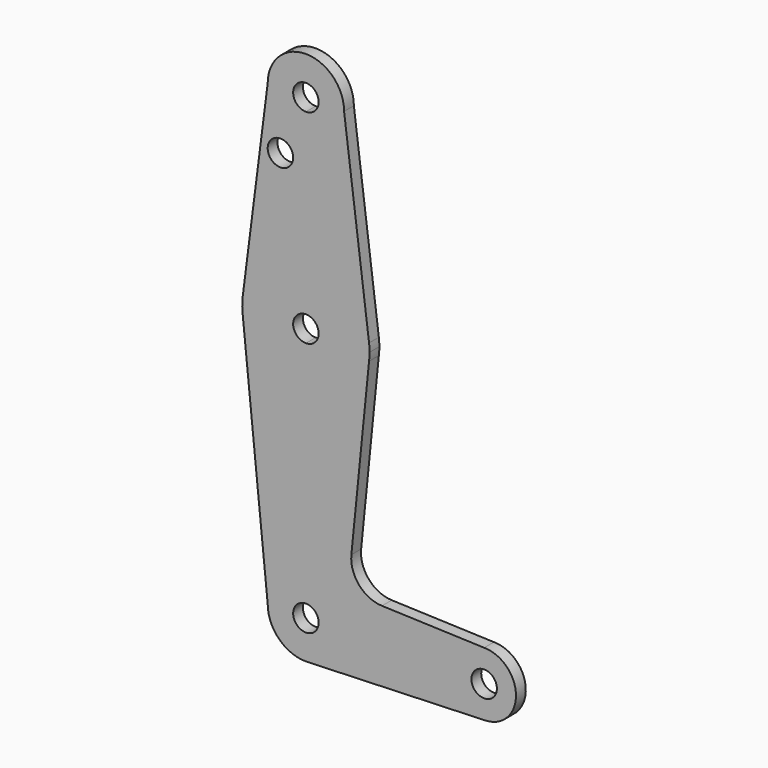
from build123d import *

# Parameters (mm, degrees)
F0_R     = 3.175
F1_DEPTH = 3.048


with BuildPart() as f1:
    # F0 (on Front) → F1 (new body)
    with BuildSketch(Plane.XZ):
        with BuildLine():
            Line((0, 104.775), (0, 79.375))
            ThreePointArc((0, 79.375), (10.4912828548, 75.4142187767), (15.7474569047, 65.5082893304))
            Line((15.7474569047, 65.5082893304), (9.525, 114.3))
            ThreePointArc((9.525, 114.3), (6.7351920908, 107.5648079092), (0, 104.775))
        make_face()
        with BuildLine():
            Line((-9.525, 114.3), (-15.7474569047, 65.5082893304))
            ThreePointArc((-15.7474569047, 65.5082893304), (-10.4912828548, 75.4142187767), (0, 79.375))
            Line((0, 79.375), (0, 104.775))
            ThreePointArc((0, 104.775), (-6.7351920908, 107.5648079092), (-9.525, 114.3))
        make_face()
        with Locations((-6.35, 100.0252)):
            Circle(F0_R, mode=Mode.SUBTRACT)
        with BuildLine():
            ThreePointArc((9.525, 114.3), (0, 123.825), (-9.525, 114.3))
            ThreePointArc((-9.525, 114.3), (-6.7351920908, 107.5648079092), (0, 104.775))
            ThreePointArc((0, 104.775), (6.7351920908, 107.5648079092), (9.525, 114.3))
        make_face()
        with BuildLine():
            ThreePointArc((3.175, 114.3), (2.2450640303, 112.0549359697), (0, 111.125))
            ThreePointArc((0, 111.125), (-2.2450640303, 116.5450640303), (3.175, 114.3))
        make_face(mode=Mode.SUBTRACT)
        with BuildLine():
            Line((0, 47.625), (0, 9.525))
            ThreePointArc((0, 9.525), (6.7351920908, 6.7351920908), (9.525, 0))
            Line((9.525, 0), (36.5125, 0))
            ThreePointArc((36.5125, 0), (38.8373399243, 5.6126600757), (44.45, 7.9375))
            Line((44.45, 7.9375), (18.9647942191, 8.8511945514))
            ThreePointArc((18.9647942191, 8.8511945514), (13.2592410586, 11.5693613748), (11.3392208, 17.5905979549))
            Line((11.3392208, 17.5905979549), (15.7474569047, 61.4917106696))
            ThreePointArc((15.7474569047, 61.4917106696), (10.4912828548, 51.5857812233), (0, 47.625))
        make_face()
        with BuildLine():
            Line((0, 60.325), (0, 47.625))
            ThreePointArc((0, 47.625), (10.4912828548, 51.5857812233), (15.7474569047, 61.4917106696))
            ThreePointArc((15.7474569047, 61.4917106696), (15.8430821396, 62.4938323604), (15.875, 63.5))
            ThreePointArc((15.875, 63.5), (15.8430821396, 64.5061676396), (15.7474569047, 65.5082893304))
            ThreePointArc((15.7474569047, 65.5082893304), (10.4912828548, 75.4142187767), (0, 79.375))
            Line((0, 79.375), (0, 66.675))
            ThreePointArc((0, 66.675), (2.2450640303, 65.7450640303), (3.175, 63.5))
            ThreePointArc((3.175, 63.5), (2.2450640303, 61.2549359697), (0, 60.325))
        make_face()
        with BuildLine():
            ThreePointArc((-15.7942028036, 61.9003804205), (-10.644756084, 51.722700101), (0, 47.625))
            Line((0, 47.625), (0, 60.325))
            ThreePointArc((0, 60.325), (-3.175, 63.5), (0, 66.675))
            Line((0, 66.675), (0, 79.375))
            ThreePointArc((0, 79.375), (-10.4912828548, 75.4142187767), (-15.7474569047, 65.5082893304))
            ThreePointArc((-15.7474569047, 65.5082893304), (-15.873667691, 63.7056672947), (-15.7942028036, 61.9003804205))
        make_face()
        with BuildLine():
            ThreePointArc((-9.525, 0), (-6.7351920908, 6.7351920908), (0, 9.525))
            Line((0, 9.525), (0, 47.625))
            ThreePointArc((0, 47.625), (-10.644756084, 51.722700101), (-15.7942028036, 61.9003804205))
            Line((-15.7942028036, 61.9003804205), (-9.525, 0))
        make_face()
        with BuildLine():
            ThreePointArc((3.175, 0), (-2.2450640303, -2.2450640303), (0, 3.175))
            Line((0, 3.175), (0, 9.525))
            ThreePointArc((0, 9.525), (-6.7351920908, 6.7351920908), (-9.525, 0))
            ThreePointArc((-9.525, 0), (-6.7351920908, -6.7351920908), (0, -9.525))
            Line((0, -9.525), (0.6773435479, -9.500885786))
            ThreePointArc((0.6773435479, -9.500885786), (6.9705567315, -6.4912990883), (9.525, 0))
            Line((9.525, 0), (3.175, 0))
        make_face()
        with BuildLine():
            Line((36.5125, 0), (9.525, 0))
            ThreePointArc((9.525, 0), (6.9705567315, -6.4912990883), (0.6773435479, -9.500885786))
            Line((0.6773435479, -9.500885786), (44.7324052746, -7.9324746146))
            ThreePointArc((44.7324052746, -7.9324746146), (38.9380895153, -5.7116327839), (36.5125, 0))
        make_face()
        with BuildLine():
            ThreePointArc((44.45, 7.9375), (38.8373399243, 5.6126600757), (36.5125, 0))
            ThreePointArc((36.5125, 0), (38.9380895153, -5.7116327839), (44.7324052746, -7.9324746146))
            ThreePointArc((44.7324052746, -7.9324746146), (50.1616327839, -5.5119104847), (52.3875, 0))
            ThreePointArc((52.3875, 0), (50.0626600757, 5.6126600757), (44.45, 7.9375))
        make_face()
        with BuildLine():
            ThreePointArc((47.625, 0), (44.45, -3.175), (41.275, 0))
            ThreePointArc((41.275, 0), (44.45, 3.175), (47.625, 0))
        make_face(mode=Mode.SUBTRACT)
        with BuildLine():
            Line((0, 9.525), (0, 3.175))
            ThreePointArc((0, 3.175), (2.2450640303, 2.2450640303), (3.175, 0))
            Line((3.175, 0), (9.525, 0))
            ThreePointArc((9.525, 0), (6.7351920908, 6.7351920908), (0, 9.525))
        make_face()
    extrude(amount=F1_DEPTH)


solid = f1.part
